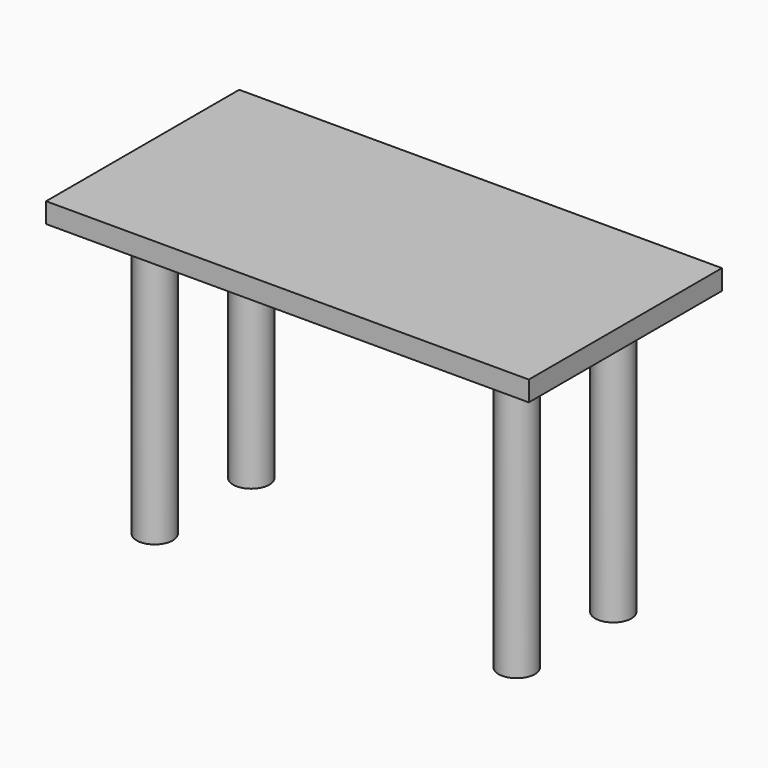
from build123d import *

# Parameters (mm, degrees)
CYLINDER001_R             = 1.5
CYLINDER001_DEPTH         = 23
ARRAY002_X_COUNT          = 2
ARRAY002_X_PITCH          = 10
ARRAY002_Y_COUNT          = 2
ARRAY002_Y_PITCH          = 30
BOX016_W                  = 20
BOX016_H                  = 40
BOX016_DEPTH              = 1.66667
FUSION004_PLACEMENT_ANGLE = 90


with BuildPart() as obj1:
    # Cylinder001 → Cylinder001 (new body)
    with BuildSketch(Plane(origin=(70, 112.5, 0), x_dir=(1, 0, 0), z_dir=(0, 0, 1))):
        Circle(CYLINDER001_R)
    extrude(amount=CYLINDER001_DEPTH)

    # Array002 X: obj1_2


with BuildPart() as obj1_1:
    add(obj1.part)
    with Locations(*[(i * ARRAY002_X_PITCH, 0, 0) for i in range(1, ARRAY002_X_COUNT)]):
        add(obj1.part)

    # Array002 Y: obj1_2


with BuildPart() as obj1_2:
    add(obj1_1.part)
    with Locations(*[(0, i * ARRAY002_Y_PITCH, 0) for i in range(1, ARRAY002_Y_COUNT)]):
        add(obj1_1.part)


with BuildPart() as obj2:
    # Box016 → Box016 (new body)
    with BuildSketch(Plane(origin=(65, 107.5, 23), x_dir=(1, 0, 0), z_dir=(0, 0, 1))):
        with Locations((10, 20)):
            Rectangle(BOX016_W, BOX016_H)
    extrude(amount=BOX016_DEPTH)

    # Fusion004: union obj1
    add(obj1_2.part)


with BuildPart() as obj2_1:
    # Fusion004 placement: moved
    add(obj2.part.moved(Location((210, 0, 97))).rotate(Axis((210, 0, 97), (0, 0, 1)), FUSION004_PLACEMENT_ANGLE))


solid = obj2_1.part
